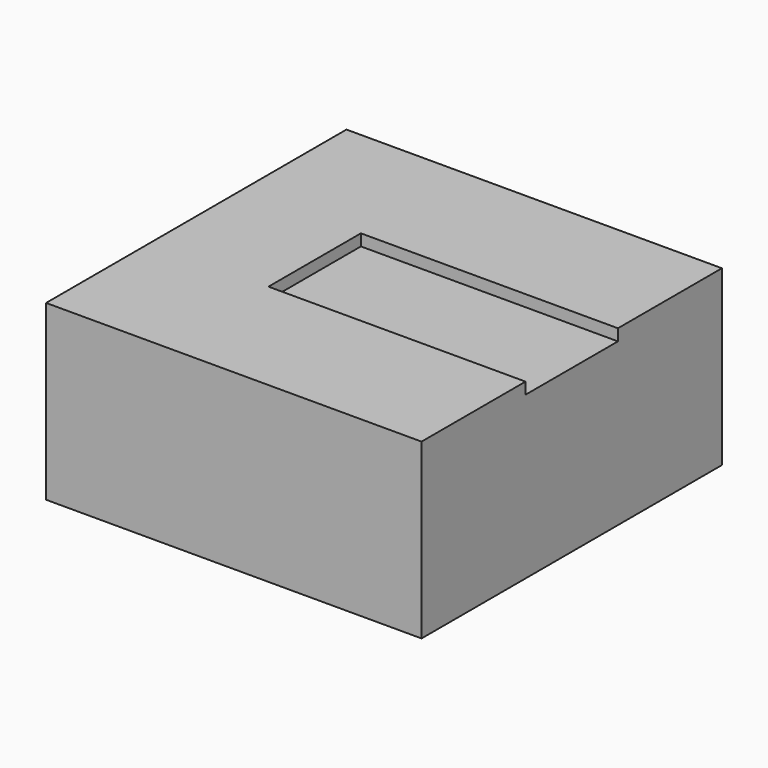
from build123d import *

# Parameters (mm, degrees)
F0_W      = 130
F0_H      = 130
F1_DEPTH  = 60
F2_W      = 110
F2_H      = 110
F3_DEPTH  = 50
F4_W      = 89
F4_H      = 40
F5_DEPTH  = 4
F6_R      = 7
F7_W      = 10
F7_H      = 4
F8_DEPTH  = 4
F9_W      = 10
F9_H      = 4
F10_DEPTH = 4
F11_W     = 10
F11_H     = 10
F12_DEPTH = 4


with BuildPart() as f1:
    # F0 (on Top) → F1 (new body)
    with BuildSketch(Plane.XY):
        Rectangle(F0_W, F0_H)
    extrude(amount=F1_DEPTH)

    # F2 (on Top) → F3 (cut)
    with BuildSketch(Plane.XY):
        Rectangle(F2_W, F2_H)
    extrude(amount=F3_DEPTH, mode=Mode.SUBTRACT)

    # F4 (on face) → F5 (cut)
    with BuildSketch(Plane.XY.offset(60)):
        with Locations((20.5, 0)):
            Rectangle(F4_W, F4_H)
    extrude(amount=-F5_DEPTH, mode=Mode.SUBTRACT)

    # F6
    f6_edges = [f1.edges().sort_by_distance(p)[0] for p in [
        (55, -55, 25),
        (55, 55, 25),
        (-55, 55, 25),
        (-55, -55, 25),
    ]]
    fillet(f6_edges, radius=F6_R)

    # F7 (on face) → F8 (cut)
    with BuildSketch(Plane.XY):
        with Locations((-60, -39.780788)):
            Rectangle(F7_W, F7_H)
    extrude(amount=F8_DEPTH, mode=Mode.SUBTRACT)

    # F9 (on face) → F10 (cut)
    with BuildSketch(Plane.XY):
        with Locations((-60, -47.136784)):
            Rectangle(F9_W, F9_H)
    extrude(amount=F10_DEPTH, mode=Mode.SUBTRACT)

    # F11 (on face) → F12 (cut)
    with BuildSketch(Plane.XY):
        with Locations((-60, 45)):
            Rectangle(F11_W, F11_H)
    extrude(amount=F12_DEPTH, mode=Mode.SUBTRACT)


solid = f1.part
